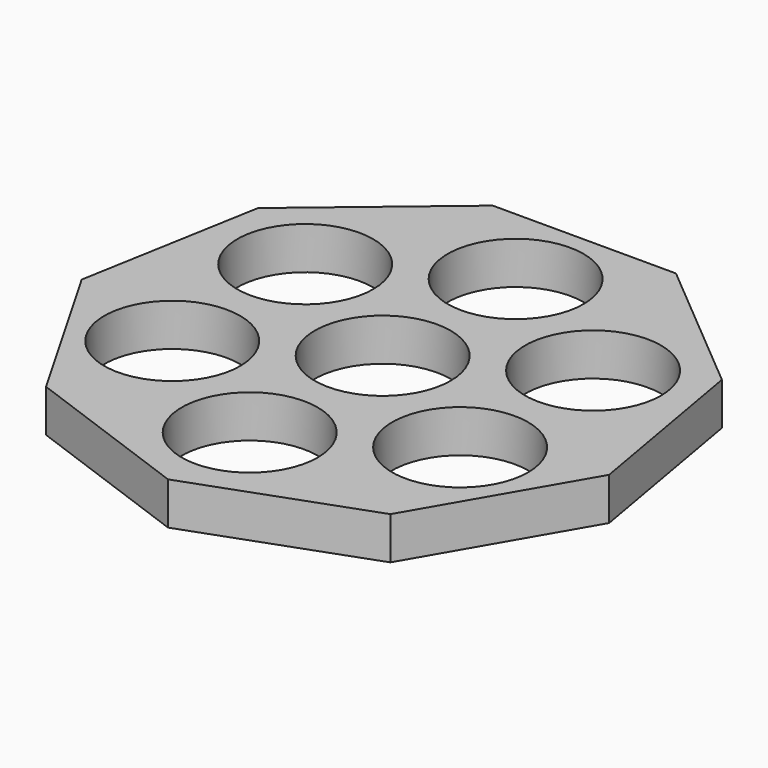
from build123d import *

# Parameters (mm, degrees)
F0_R     = 13.2
F0_R_2   = 11.2
F1_DEPTH = 7


with BuildPart() as f1:
    # F0 (on Top) → F1 (new body)
    with BuildSketch(Plane.XY):
        Polygon((28.366592, -33.867491), (43.499674, -7.71031), (38.278775, 22.054612), (15.146812, 41.499935), (-15.072513, 41.526978), (-38.239242, 22.123086), (-43.513404, -7.632444), (-28.427161, -33.816668), (-0.039534, -44.177698), align=None)
        with Locations((-23.726749, -13.698645)):
            Circle(F0_R, mode=Mode.SUBTRACT)
        with Locations((0, -27.39729)):
            Circle(F0_R, mode=Mode.SUBTRACT)
        with Locations((23.726749, -13.698645)):
            Circle(F0_R, mode=Mode.SUBTRACT)
        with Locations((-23.726749, 13.698645)):
            Circle(F0_R, mode=Mode.SUBTRACT)
        Circle(F0_R, mode=Mode.SUBTRACT)
        with Locations((23.726749, 13.698645)):
            Circle(F0_R, mode=Mode.SUBTRACT)
        with Locations((0, 27.39729)):
            Circle(F0_R, mode=Mode.SUBTRACT)
        with Locations((-23.726749, 13.698645)):
            Circle(F0_R)
        with Locations((-23.726749, 13.698645)):
            Circle(F0_R_2, mode=Mode.SUBTRACT)
        with Locations((0, 27.39729)):
            Circle(F0_R)
        with Locations((0, 27.39729)):
            Circle(F0_R_2, mode=Mode.SUBTRACT)
        with Locations((23.726749, 13.698645)):
            Circle(F0_R)
        with Locations((23.726749, 13.698645)):
            Circle(F0_R_2, mode=Mode.SUBTRACT)
        with Locations((23.726749, -13.698645)):
            Circle(F0_R)
        with Locations((23.726749, -13.698645)):
            Circle(F0_R_2, mode=Mode.SUBTRACT)
        with Locations((0, -27.39729)):
            Circle(F0_R)
        with Locations((0, -27.39729)):
            Circle(F0_R_2, mode=Mode.SUBTRACT)
        with Locations((-23.726749, -13.698645)):
            Circle(F0_R)
        with Locations((-23.726749, -13.698645)):
            Circle(F0_R_2, mode=Mode.SUBTRACT)
        Circle(F0_R)
        Circle(F0_R_2, mode=Mode.SUBTRACT)
    extrude(amount=F1_DEPTH)


solid = f1.part
